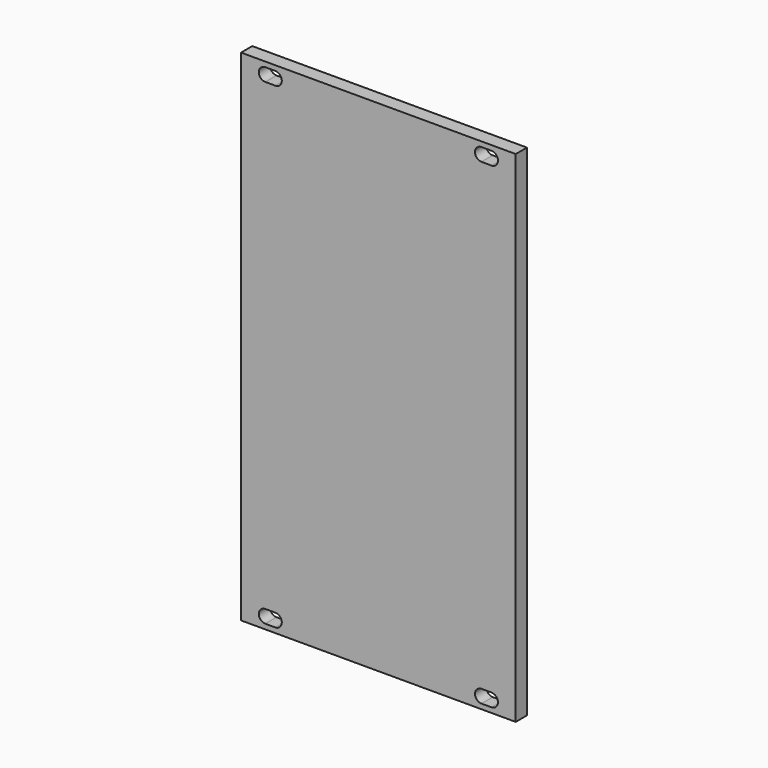
from build123d import *

# Parameters (mm, degrees)
F0_W     = 70.5
F0_H     = 128.3
F1_DEPTH = 3.6


with BuildPart() as f1:
    # F0 (on Front) → F1 (new body)
    with BuildSketch(Plane.XZ):
        Rectangle(F0_W, F0_H)
        with BuildLine():
            Line((-26.46, -62.87), (-29.02, -62.87))
            ThreePointArc((-29.02, -62.87), (-30.69, -61.2), (-29.02, -59.53))
            Line((-29.02, -59.53), (-26.46, -59.53))
            ThreePointArc((-26.46, -59.53), (-24.79, -61.2), (-26.46, -62.87))
        make_face(mode=Mode.SUBTRACT)
        with BuildLine():
            ThreePointArc((26.46, -62.87), (24.79, -61.2), (26.46, -59.53))
            Line((26.46, -59.53), (29.02, -59.53))
            ThreePointArc((29.02, -59.53), (30.69, -61.2), (29.02, -62.87))
            Line((29.02, -62.87), (26.46, -62.87))
        make_face(mode=Mode.SUBTRACT)
        with BuildLine():
            ThreePointArc((-29.02, 59.53), (-30.69, 61.2), (-29.02, 62.87))
            Line((-29.02, 62.87), (-26.46, 62.87))
            ThreePointArc((-26.46, 62.87), (-24.79, 61.2), (-26.46, 59.53))
            Line((-26.46, 59.53), (-29.02, 59.53))
        make_face(mode=Mode.SUBTRACT)
        with BuildLine():
            Line((26.46, 62.87), (29.02, 62.87))
            ThreePointArc((29.02, 62.87), (30.69, 61.2), (29.02, 59.53))
            Line((29.02, 59.53), (26.46, 59.53))
            ThreePointArc((26.46, 59.53), (24.79, 61.2), (26.46, 62.87))
        make_face(mode=Mode.SUBTRACT)
    extrude(amount=F1_DEPTH)


solid = f1.part
